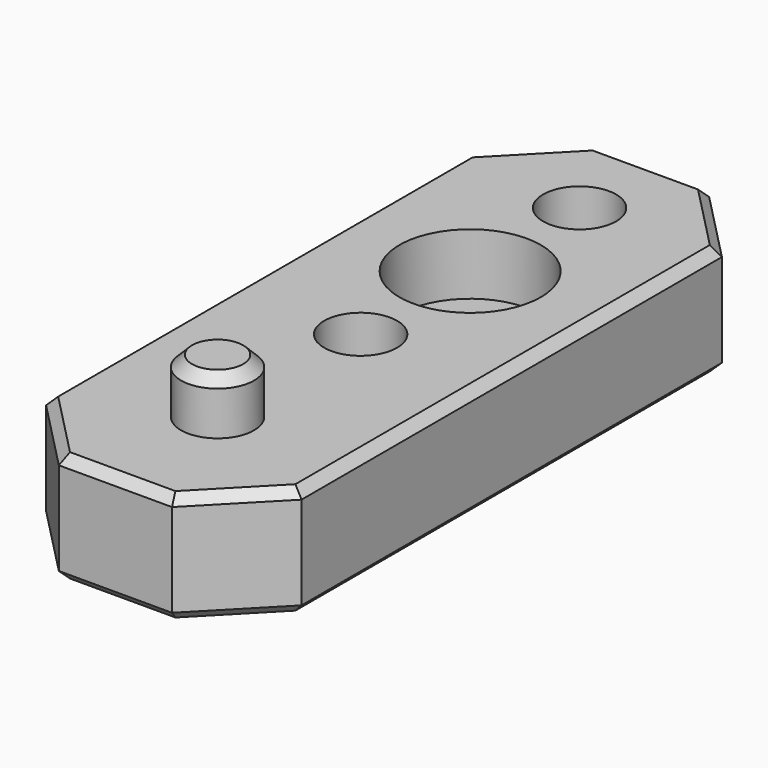
from build123d import *

# Parameters (mm, degrees)
F0_R     = 2
F0_R_2   = 2.225
F1_DEPTH = 6.1
F2_R     = 3.875
F2_R_2   = 2.225
F3_DEPTH = 3.35
F4_R     = 2
F5_DEPTH = 3
F6_SIZE  = 0.6
F7_SIZE  = 0.5


with BuildPart() as f1:
    # F0 (on Top) → F1 (new body)
    with BuildSketch(Plane.XY):
        Polygon((-7, 14.4), (-7, 0), (-7, -14.4), (-3.1, -18.4), (0, -18.4), (3.1, -18.4), (7, -14.4), (7, 0), (7, 14.4), (3.1, 18.4), (0, 18.4), (-3.1, 18.4), align=None)
        with Locations((0, -1.6)):
            Circle(F0_R, mode=Mode.SUBTRACT)
        with Locations((0, 5.9)):
            Circle(F0_R_2, mode=Mode.SUBTRACT)
        with Locations((0, 13.4)):
            Circle(F0_R, mode=Mode.SUBTRACT)
    extrude(amount=F1_DEPTH)

    # F2 (on face) → F3 (cut)
    with BuildSketch(Plane.XY.offset(6.1)):
        with Locations((0, 5.9)):
            Circle(F2_R)
        with Locations((0, 5.9)):
            Circle(F2_R_2, mode=Mode.SUBTRACT)
    extrude(amount=-F3_DEPTH, mode=Mode.SUBTRACT)

    # F4 (on face) → F5 (join)
    with BuildSketch(Plane.XY.offset(6.1)):
        with Locations((0, -11.4)):
            Circle(F4_R)
    extrude(amount=F5_DEPTH)

    # F6
    f6_edges = [f1.edges().sort_by_distance(p)[0] for p in [
        (-2, -11.4, 9.1),
    ]]
    chamfer(f6_edges, length=F6_SIZE)

    # F7
    f7_edges = [f1.edges().sort_by_distance(p)[0] for p in [
        (-7, 0, 0),
        (-5.05, -16.4, 0),
        (0, -18.4, 0),
        (5.05, -16.4, 0),
        (7, 0, 0),
        (5.05, 16.4, 0),
        (0, 18.4, 0),
        (-5.05, 16.4, 0),
        (5.05, -16.4, 6.1),
        (0, -18.4, 6.1),
        (-5.05, -16.4, 6.1),
        (-7, 0, 6.1),
        (-5.05, 16.4, 6.1),
        (0, 18.4, 6.1),
        (5.05, 16.4, 6.1),
        (7, 0, 6.1),
    ]]
    chamfer(f7_edges, length=F7_SIZE)


solid = f1.part
